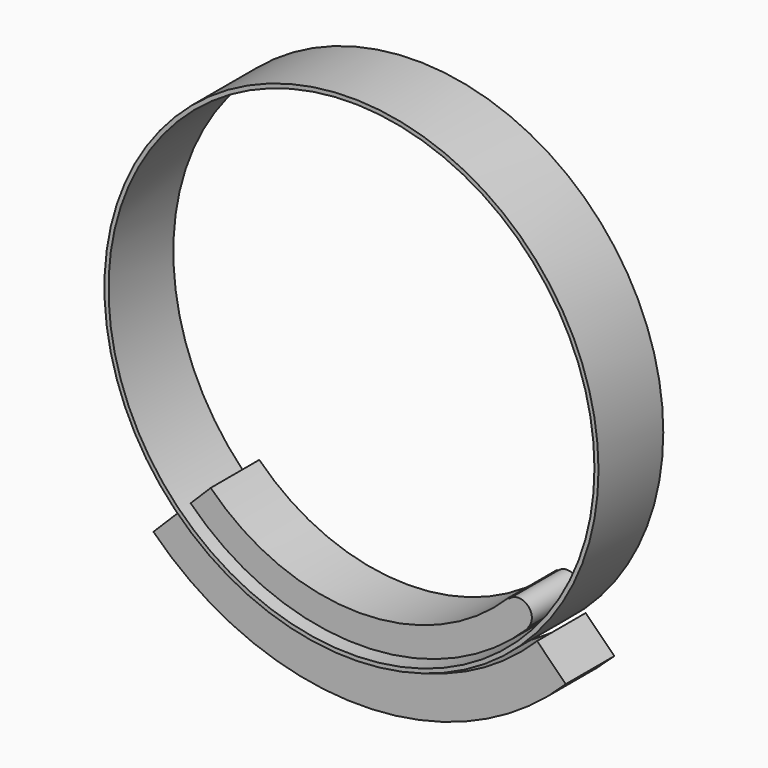
from build123d import *

# Parameters (mm, degrees)
F0_R     = 77.47
F0_R_2   = 76.2
F1_DEPTH = 12.7
F3_DEPTH = 9.525


with BuildPart() as f1:
    # F0 (on Front) → F1 (new body, symmetric)
    with BuildSketch(Plane.XZ):
        Circle(F0_R)
        Circle(F0_R_2, mode=Mode.SUBTRACT)
    extrude(amount=F1_DEPTH, both=True)


with BuildPart() as f3:
    # F2 (on Front) → F3 (new body, symmetric)
    with BuildSketch(Plane.XZ):
        with BuildLine():
            ThreePointArc((46.6973318296, -46.6973318296), (0, -66.04), (-46.6973318296, -46.6973318296))
            Line((-46.6973318296, -46.6973318296), (-52.9835111143, -52.9835111143))
            ThreePointArc((-52.9835111143, -52.9835111143), (0, -74.93), (52.9835111143, -52.9835111143))
            Line((52.9835111143, -52.9835111143), (52.804724794, -52.804724794))
            ThreePointArc((52.804724794, -52.804724794), (52.804724794, -46.8761181498), (46.8761181498, -46.8761181498))
            Line((46.8761181498, -46.8761181498), (46.6973318296, -46.6973318296))
        make_face()
    extrude(amount=F3_DEPTH, both=True)


with BuildPart() as f3b:
    # F2 (on Front) → F3, piece 2 (new body, symmetric)
    with BuildSketch(Plane.XZ):
        with BuildLine():
            ThreePointArc((55.6775879506, -55.6775879506), (0, -78.74), (-55.6775879506, -55.6775879506))
            Line((-55.6775879506, -55.6775879506), (-64.6578440717, -64.6578440717))
            ThreePointArc((-64.6578440717, -64.6578440717), (0, -91.44), (64.6578440717, -64.6578440717))
            Line((64.6578440717, -64.6578440717), (55.6775879506, -55.6775879506))
        make_face()
    extrude(amount=F3_DEPTH, both=True)


solid = Compound([f1.part, f3.part, f3b.part])
